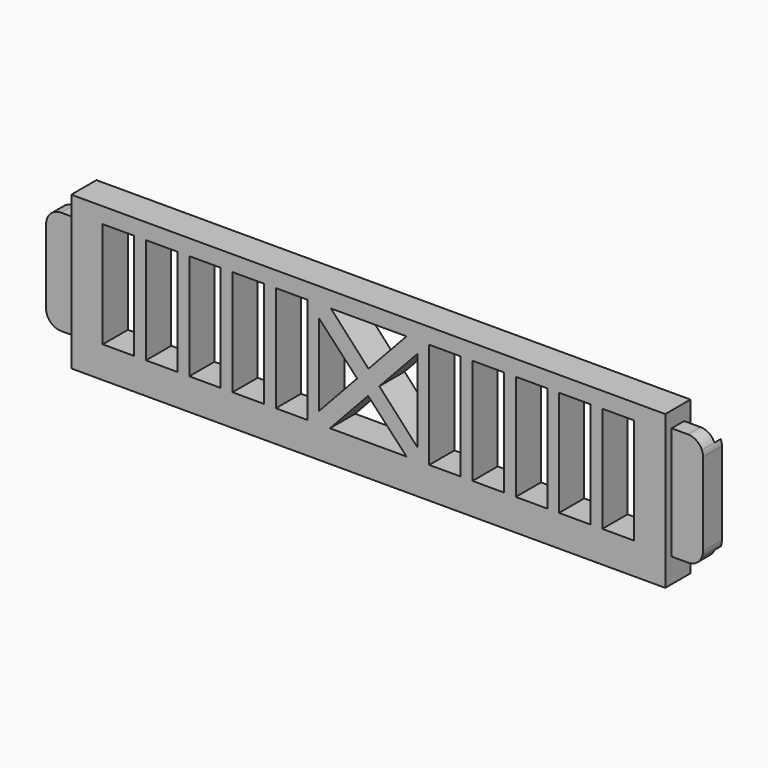
from build123d import *

# Parameters (mm, degrees)
F0_W     = 8
F0_H     = 26.900017
F1_DEPTH = 6
F2_DEPTH = 2
F3_DEPTH = 8
F4_W     = 23
F4_H     = 4
F4_W_2   = 22.5
F5_DEPTH = 5


with BuildPart() as f1:
    # F0 (on Front) → F1 (new body)
    with BuildSketch(Plane.XZ):
        with BuildLine():
            Line((-85.422808, 9.222019), (-85.422808, 31.025267))
            ThreePointArc((-85.422808, 31.025267), (-85.64706, 30.296735), (-85.722808, 29.538243))
            Line((-85.722808, 29.538243), (-85.722808, 10.709043))
            ThreePointArc((-85.722808, 10.709043), (-85.64706, 9.950551), (-85.422808, 9.222019))
        make_face()
        with BuildLine():
            ThreePointArc((81.277192, 31.73826), (81.201444, 32.496752), (80.977192, 33.225284))
            Line((80.977192, 33.225284), (80.977192, 9.222019))
            ThreePointArc((80.977192, 9.222019), (81.201444, 9.950551), (81.277192, 10.709043))
            Line((81.277192, 10.709043), (81.277192, 31.73826))
        make_face()
        with BuildLine():
            Line((77.441792, 35.57366), (73.277192, 35.57366))
            Line((73.277192, 35.57366), (73.277192, 11.555429))
            Line((73.277192, 11.555429), (73.277192, 8.673643))
            Line((73.277192, 8.673643), (73.277192, 6.873643))
            Line((73.277192, 6.873643), (77.441792, 6.873643))
            ThreePointArc((77.441792, 6.873643), (79.563932, 7.514232), (80.977192, 9.222019))
            Line((80.977192, 9.222019), (80.977192, 33.225284))
            ThreePointArc((80.977192, 33.225284), (79.563932, 34.93307), (77.441792, 35.57366))
        make_face()
        Polygon((-69.722808, 39.57366), (-77.722808, 39.57366), (-77.722808, 35.57366), (-77.722808, 33.373643), (-77.722808, 15.555412), (-77.722808, 8.673643), (-77.722808, 6.873643), (-77.722808, 0.673643), (-69.722808, 0.673643), (65.277192, 0.673643), (73.277192, 0.673643), (73.277192, 6.873643), (73.277192, 8.673643), (73.277192, 11.555429), (73.277192, 35.57366), (73.277192, 39.57366), (65.277192, 39.57366), align=None)
        Polygon((-11.958453, 8.673643), (-2.267612, 19.087933), (7.512836, 8.673643), align=None, mode=Mode.SUBTRACT)
        with Locations((-65.722808, 22.123651)):
            Rectangle(F0_W, F0_H, mode=Mode.SUBTRACT)
        with Locations((-54.722808, 22.123651)):
            Rectangle(F0_W, F0_H, mode=Mode.SUBTRACT)
        with Locations((-43.722808, 22.123651)):
            Rectangle(F0_W, F0_H, mode=Mode.SUBTRACT)
        with Locations((-32.722808, 22.123651)):
            Rectangle(F0_W, F0_H, mode=Mode.SUBTRACT)
        with Locations((-21.722808, 22.123651)):
            Rectangle(F0_W, F0_H, mode=Mode.SUBTRACT)
        Polygon((-14.722808, 11.648091), (-14.722808, 32.350313), (-5.058615, 22.059812), align=None, mode=Mode.SUBTRACT)
        Polygon((0.600276, 22.169918), (10.277192, 32.569243), (10.277192, 11.648091), align=None, mode=Mode.SUBTRACT)
        with Locations((17.277192, 22.123651)):
            Rectangle(F0_W, F0_H, mode=Mode.SUBTRACT)
        with Locations((28.277192, 22.123651)):
            Rectangle(F0_W, F0_H, mode=Mode.SUBTRACT)
        with Locations((39.277192, 22.123651)):
            Rectangle(F0_W, F0_H, mode=Mode.SUBTRACT)
        with Locations((50.277192, 22.123651)):
            Rectangle(F0_W, F0_H, mode=Mode.SUBTRACT)
        with Locations((61.277192, 22.123651)):
            Rectangle(F0_W, F0_H, mode=Mode.SUBTRACT)
        Polygon((7.484984, 35.57366), (-2.165283, 25.176943), (-11.727135, 35.57366), align=None, mode=Mode.SUBTRACT)
        with BuildLine():
            Line((-77.722808, 15.555412), (-77.722808, 33.373643))
            Line((-77.722808, 33.373643), (-81.887408, 33.373643))
            ThreePointArc((-81.887408, 33.373643), (-84.009549, 32.733053), (-85.422808, 31.025267))
            Line((-85.422808, 31.025267), (-85.422808, 9.222019))
            ThreePointArc((-85.422808, 9.222019), (-84.009549, 7.514232), (-81.887408, 6.873643))
            Line((-81.887408, 6.873643), (-77.722808, 6.873643))
            Line((-77.722808, 6.873643), (-77.722808, 8.673643))
            Line((-77.722808, 8.673643), (-77.722808, 15.555412))
        make_face()
    extrude(amount=F1_DEPTH)

    # F0 (on Front) → F2 (cut)
    with BuildSketch(Plane.XZ):
        with BuildLine():
            Line((-77.722808, 15.555412), (-77.722808, 33.373643))
            Line((-77.722808, 33.373643), (-81.887408, 33.373643))
            ThreePointArc((-81.887408, 33.373643), (-84.009549, 32.733053), (-85.422808, 31.025267))
            Line((-85.422808, 31.025267), (-85.422808, 9.222019))
            ThreePointArc((-85.422808, 9.222019), (-84.009549, 7.514232), (-81.887408, 6.873643))
            Line((-81.887408, 6.873643), (-77.722808, 6.873643))
            Line((-77.722808, 6.873643), (-77.722808, 8.673643))
            Line((-77.722808, 8.673643), (-77.722808, 15.555412))
        make_face()
        with BuildLine():
            Line((77.441792, 35.57366), (73.277192, 35.57366))
            Line((73.277192, 35.57366), (73.277192, 11.555429))
            Line((73.277192, 11.555429), (73.277192, 8.673643))
            Line((73.277192, 8.673643), (73.277192, 6.873643))
            Line((73.277192, 6.873643), (77.441792, 6.873643))
            ThreePointArc((77.441792, 6.873643), (79.563932, 7.514232), (80.977192, 9.222019))
            Line((80.977192, 9.222019), (80.977192, 33.225284))
            ThreePointArc((80.977192, 33.225284), (79.563932, 34.93307), (77.441792, 35.57366))
        make_face()
    extrude(amount=F2_DEPTH, mode=Mode.SUBTRACT)

    # F0 (on Front) → F3 (join)
    with BuildSketch(Plane.XZ):
        Polygon((-69.722808, 39.57366), (-77.722808, 39.57366), (-77.722808, 35.57366), (-77.722808, 33.373643), (-77.722808, 15.555412), (-77.722808, 8.673643), (-77.722808, 6.873643), (-77.722808, 0.673643), (-69.722808, 0.673643), (65.277192, 0.673643), (73.277192, 0.673643), (73.277192, 6.873643), (73.277192, 8.673643), (73.277192, 11.555429), (73.277192, 35.57366), (73.277192, 39.57366), (65.277192, 39.57366), align=None)
        Polygon((-11.958453, 8.673643), (-2.267612, 19.087933), (7.512836, 8.673643), align=None, mode=Mode.SUBTRACT)
        with Locations((-65.722808, 22.123651)):
            Rectangle(F0_W, F0_H, mode=Mode.SUBTRACT)
        with Locations((-54.722808, 22.123651)):
            Rectangle(F0_W, F0_H, mode=Mode.SUBTRACT)
        with Locations((-43.722808, 22.123651)):
            Rectangle(F0_W, F0_H, mode=Mode.SUBTRACT)
        with Locations((-32.722808, 22.123651)):
            Rectangle(F0_W, F0_H, mode=Mode.SUBTRACT)
        with Locations((-21.722808, 22.123651)):
            Rectangle(F0_W, F0_H, mode=Mode.SUBTRACT)
        Polygon((-14.722808, 11.648091), (-14.722808, 32.350313), (-5.058615, 22.059812), align=None, mode=Mode.SUBTRACT)
        Polygon((0.600276, 22.169918), (10.277192, 32.569243), (10.277192, 11.648091), align=None, mode=Mode.SUBTRACT)
        with Locations((17.277192, 22.123651)):
            Rectangle(F0_W, F0_H, mode=Mode.SUBTRACT)
        with Locations((28.277192, 22.123651)):
            Rectangle(F0_W, F0_H, mode=Mode.SUBTRACT)
        with Locations((39.277192, 22.123651)):
            Rectangle(F0_W, F0_H, mode=Mode.SUBTRACT)
        with Locations((50.277192, 22.123651)):
            Rectangle(F0_W, F0_H, mode=Mode.SUBTRACT)
        with Locations((61.277192, 22.123651)):
            Rectangle(F0_W, F0_H, mode=Mode.SUBTRACT)
        Polygon((7.484984, 35.57366), (-2.165283, 25.176943), (-11.727135, 35.57366), align=None, mode=Mode.SUBTRACT)
    extrude(amount=F3_DEPTH)

    # F4 (on Top) → F5 (cut)
    with BuildSketch(Plane.XY):
        Polygon((-75.366058, -1.990048), (-75.366058, -5.990048), (-52.866058, -5.990048), (-52.866058, -3.990048), (-52.866058, -1.990048), align=None)
        Polygon((-42.866058, -1.990048), (-42.866058, -5.990048), (-19.866058, -5.990048), (-19.866058, -3.990048), (-19.866058, -1.990048), align=None)
        with Locations((23.633942, -3.990048)):
            Rectangle(F4_W, F4_H)
        with Locations((56.383942, -3.990048)):
            Rectangle(F4_W_2, F4_H)
    extrude(amount=F5_DEPTH, mode=Mode.SUBTRACT)


solid = f1.part
